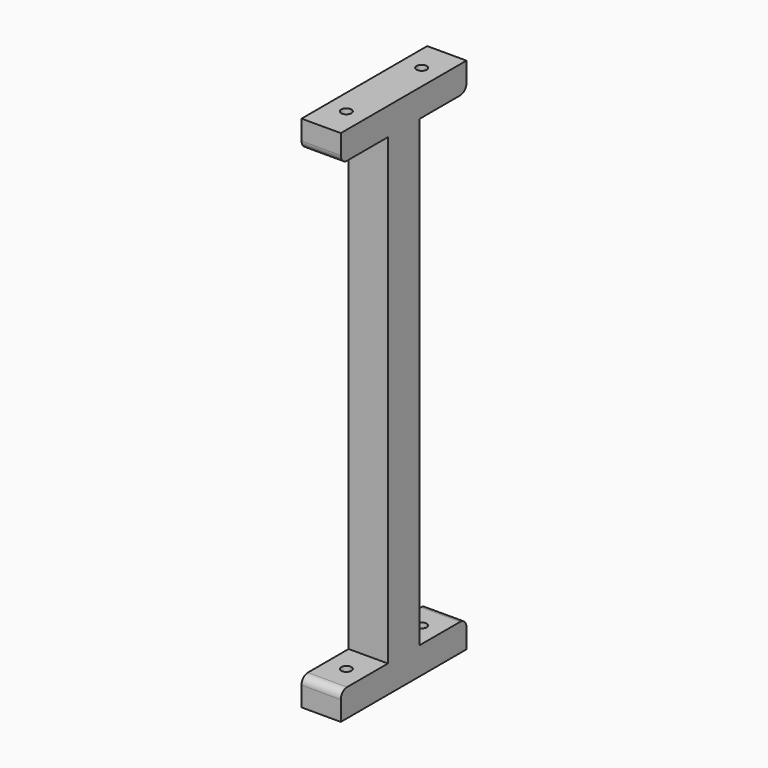
from build123d import *

# Parameters (mm, degrees)
CYLINDER048_R          = 1.3
CYLINDER048_DEPTH      = 146
CYLINDER046_R          = 1.3
CYLINDER046_DEPTH      = 146
CYLINDER044_R          = 1.3
CYLINDER044_DEPTH      = 146
CYLINDER028_R          = 1.3
CYLINDER028_DEPTH      = 146
CYLINDER027_R          = 1.3
CYLINDER027_DEPTH      = 146
BOX100_W               = 15
BOX100_H               = 10
BOX100_DEPTH           = 7
BOX101_W               = 10
BOX101_H               = 10
BOX101_DEPTH           = 132
BOX098_W               = 15
BOX098_H               = 10
BOX098_DEPTH           = 7
BOX097_W               = 15
BOX097_H               = 10
BOX097_DEPTH           = 7
BOX099_W               = 15
BOX099_H               = 10
BOX099_DEPTH           = 7
FILLET007_R            = 2
CUT042_PLACEMENT_ANGLE = 90


with BuildPart() as cilindro048:
    # Cylinder048 → Cylinder048 (new body)
    with BuildSketch(Plane(origin=(5, 103, 8), x_dir=(1, 0, 0), z_dir=(0, 0, 1))):
        Circle(CYLINDER048_R)
    extrude(amount=CYLINDER048_DEPTH)


with BuildPart() as cilindro046:
    # Cylinder046 → Cylinder046 (new body)
    with BuildSketch(Plane(origin=(5, 103, 8), x_dir=(1, 0, 0), z_dir=(0, 0, 1))):
        Circle(CYLINDER046_R)
    extrude(amount=CYLINDER046_DEPTH)


with BuildPart() as cilindro044:
    # Cylinder044 → Cylinder044 (new body)
    with BuildSketch(Plane(origin=(5, 127, 8), x_dir=(1, 0, 0), z_dir=(0, 0, 1))):
        Circle(CYLINDER044_R)
    extrude(amount=CYLINDER044_DEPTH)


with BuildPart() as cilindro028:
    # Cylinder028 → Cylinder028 (new body)
    with BuildSketch(Plane(origin=(182, 5, 8), x_dir=(1, 0, 0), z_dir=(0, 0, 1))):
        Circle(CYLINDER028_R)
    extrude(amount=CYLINDER028_DEPTH)


with BuildPart() as cilindro027:
    # Cylinder027 → Cylinder027 (new body)
    with BuildSketch(Plane(origin=(158, 5, 8), x_dir=(1, 0, 0), z_dir=(0, 0, 1))):
        Circle(CYLINDER027_R)
    extrude(amount=CYLINDER027_DEPTH)


with BuildPart() as cubo063:
    # Box100 → Box100 (new body)
    with BuildSketch(Plane(origin=(175, 0, 15), x_dir=(1, 0, 0), z_dir=(0, 0, 1))):
        with Locations((7.5, 5)):
            Rectangle(BOX100_W, BOX100_H)
    extrude(amount=BOX100_DEPTH)


with BuildPart() as cubo064:
    # Box101 → Box101 (new body)
    with BuildSketch(Plane(origin=(165, 0, 15), x_dir=(1, 0, 0), z_dir=(0, 0, 1))):
        with Locations((5, 5)):
            Rectangle(BOX101_W, BOX101_H)
    extrude(amount=BOX101_DEPTH)


with BuildPart() as cubo061:
    # Box098 → Box098 (new body)
    with BuildSketch(Plane(origin=(150, 0, 15), x_dir=(1, 0, 0), z_dir=(0, 0, 1))):
        with Locations((7.5, 5)):
            Rectangle(BOX098_W, BOX098_H)
    extrude(amount=BOX098_DEPTH)


with BuildPart() as cubo060:
    # Box097 → Box097 (new body)
    with BuildSketch(Plane(origin=(150, 0, 140), x_dir=(1, 0, 0), z_dir=(0, 0, 1))):
        with Locations((7.5, 5)):
            Rectangle(BOX097_W, BOX097_H)
    extrude(amount=BOX097_DEPTH)


with BuildPart() as cut063:
    # Box099 → Box099 (new body)
    with BuildSketch(Plane(origin=(175, 0, 140), x_dir=(1, 0, 0), z_dir=(0, 0, 1))):
        with Locations((7.5, 5)):
            Rectangle(BOX099_W, BOX099_H)
    extrude(amount=BOX099_DEPTH)

    # Fusion015: union Cubo063, Cubo064, Cubo061, Cubo060
    add(cubo063.part)
    add(cubo064.part)
    add(cubo061.part)
    add(cubo060.part)

    # Fillet007
    fillet007_edges = [cut063.edges().sort_by_distance(p)[0] for p in [
        (190, 5, 140),
        (190, 5, 22),
        (150, 5, 22),
        (150, 5, 140),
    ]]
    fillet(fillet007_edges, radius=FILLET007_R)

    # Cut041: cut Cilindro027
    add(cilindro027.part, mode=Mode.SUBTRACT)

    # Cut042: cut Cilindro028
    add(cilindro028.part, mode=Mode.SUBTRACT)


with BuildPart() as cut063_1:
    # Cut042 placement: moved
    add(cut063.part.moved(Location((10, -55, 0))).rotate(Axis((10, -55, 0), (0, 0, 1)), CUT042_PLACEMENT_ANGLE))

    # Cut059: cut Cilindro044
    add(cilindro044.part, mode=Mode.SUBTRACT)

    # Cut061: cut Cilindro046
    add(cilindro046.part, mode=Mode.SUBTRACT)

    # Cut063: cut Cilindro048
    add(cilindro048.part, mode=Mode.SUBTRACT)


solid = cut063_1.part
